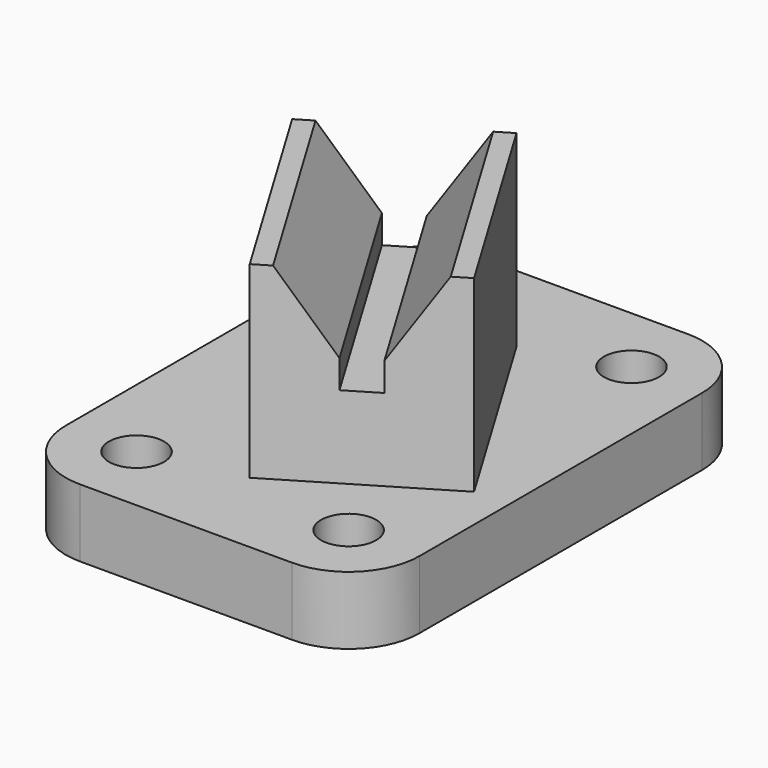
from build123d import *

# Parameters (mm, degrees)
F0_R     = 4.953
F1_DEPTH = 12.192
F2_DEPTH = 45.974
F4_DEPTH = 77.6025691706


with BuildPart() as f1:
    # F0 (on Top) → F1 (new body)
    with BuildSketch(Plane.XY):
        with BuildLine():
            ThreePointArc((0, 12.7), (3.7197438789, 3.7197438789), (12.7, 0))
            Line((12.7, 0), (50.8, 0))
            ThreePointArc((50.8, 0), (59.7802561211, 3.7197438789), (63.5, 12.7))
            Line((63.5, 12.7), (63.5, 76.2))
            ThreePointArc((63.5, 76.2), (59.7802561211, 85.1802561211), (50.8, 88.9))
            Line((50.8, 88.9), (12.7, 88.9))
            ThreePointArc((12.7, 88.9), (3.7197438789, 85.1802561211), (0, 76.2))
            Line((0, 76.2), (0, 12.7))
        make_face()
        with Locations((12.7, 12.7)):
            Circle(F0_R, mode=Mode.SUBTRACT)
        with Locations((50.8, 12.7)):
            Circle(F0_R, mode=Mode.SUBTRACT)
        Polygon((34.4043359374, 70.8815605479), (57.2736722661, 32.766), (30.0482718748, 16.4307597652), (7.178935546, 54.5463203131), align=None, mode=Mode.SUBTRACT)
        with BuildLine():
            ThreePointArc((8.5061583053, 73.5648717603), (8.452801422, 73.6517627193), (8.4012445439, 73.7397336468))
            ThreePointArc((8.4012445439, 73.7397336468), (11.4271148469, 80.9866452121), (17.653, 76.2))
            ThreePointArc((17.653, 76.2), (14.0711511744, 71.4405721503), (8.5061583053, 73.5648717603))
        make_face(mode=Mode.SUBTRACT)
        with Locations((50.8, 76.2)):
            Circle(F0_R, mode=Mode.SUBTRACT)
    extrude(amount=F1_DEPTH)

    # F0 (on Top) → F2 (join)
    with BuildSketch(Plane.XY):
        Polygon((30.0482718748, 16.4307597652), (57.2736722661, 32.766), (34.4043359374, 70.8815605479), (7.178935546, 54.5463203131), align=None)
    extrude(amount=F2_DEPTH)

    # F3 (on face) → F4 (cut, through all)
    with BuildSketch(Plane(origin=(0.7050897175, -1.1751495292, 0), x_dir=(0.8574929257, 0.5144957554, 0), z_dir=(0.5144957554, -0.8574929257, 0))):
        Polygon((62.6677367201, 45.974), (37.5217367201, 45.974), (46.9197367201, 32.004), (46.9197367201, 26.924), (53.2697367201, 26.924), (53.2697367201, 32.004), align=None)
    extrude(amount=-F4_DEPTH, mode=Mode.SUBTRACT)


solid = f1.part
